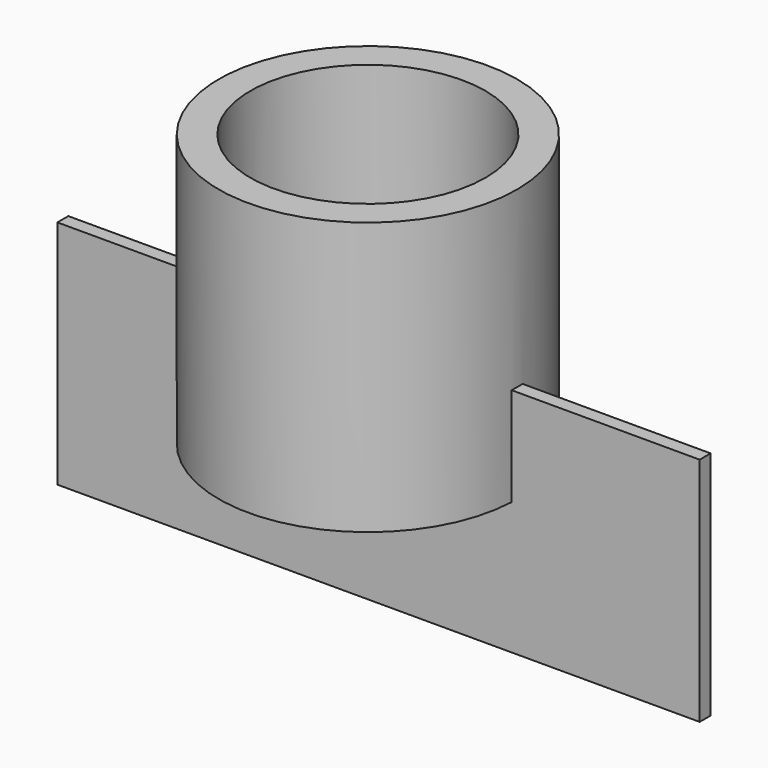
from build123d import *

# Parameters (mm, degrees)
F0_R          = 55.519011
F0_R_2        = 43.738793
F1_DEPTH      = 101.346
F2_W          = 238.856115
F2_H          = 85.85909
F3_DEPTH      = 2.54
F3_DEPTH_BACK = 2.54


with BuildPart() as f1:
    # F0 (on Top) → F1 (new body)
    with BuildSketch(Plane.XY):
        Circle(F0_R)
        Circle(F0_R_2, mode=Mode.SUBTRACT)
    extrude(amount=-F1_DEPTH)

    # F2 (on Front) → F3 (join, two sides)
    with BuildSketch(Plane.XZ) as f3_sk:
        with Locations((5.983558, -107.62085)):
            Rectangle(F2_W, F2_H)
    extrude(amount=F3_DEPTH)
    extrude(f3_sk.sketch, amount=-F3_DEPTH_BACK)


solid = f1.part
